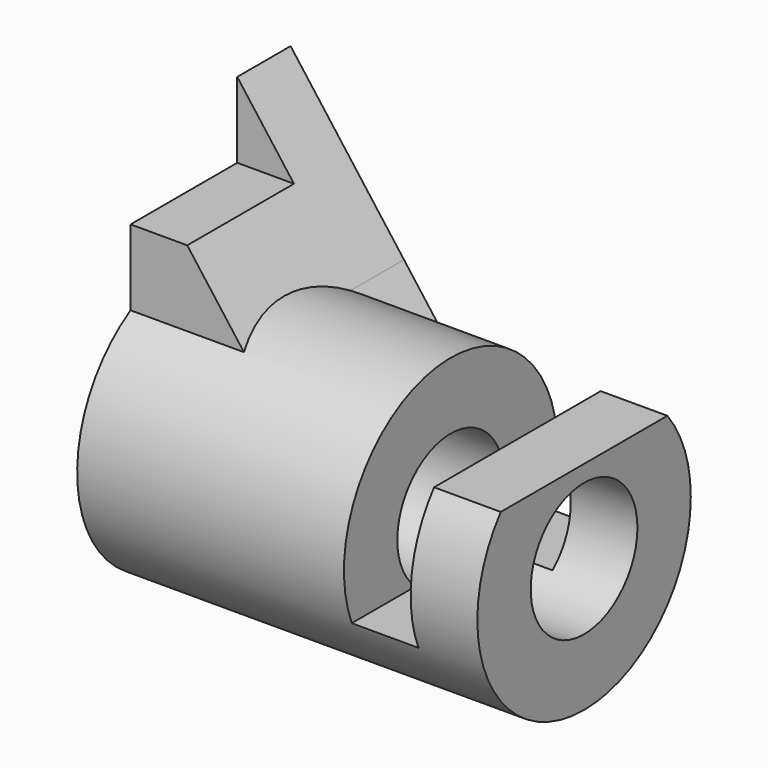
from build123d import *

# Parameters (mm, degrees)
F0_R          = 25.4
F0_R_2        = 12.7
F1_DEPTH      = 76.2
F3_DEPTH      = 25.4
F3_DEPTH_BACK = 12.7
F5_DEPTH      = 25.4
F6_R          = 12.7
F7_DEPTH      = 76.201
F9_DEPTH      = 25.401
F9_DEPTH_BACK = 25.4


with BuildPart() as f1:
    # F0 (on Right) → F1 (new body)
    with BuildSketch(Plane.YZ):
        Circle(F0_R)
        Circle(F0_R_2, mode=Mode.SUBTRACT)
    extrude(amount=F1_DEPTH)

    # F2 (on Front) → F3 (join, two sides)
    with BuildSketch(Plane.XZ) as f3_sk:
        Polygon((0, 22.0133333333), (0, 0), (38.1, 0), (21.59, 22.0133333333), align=None)
        Polygon((0, 50.8), (0, 22.0133333333), (21.59, 22.0133333333), align=None)
    extrude(amount=-F3_DEPTH)
    extrude(f3_sk.sketch, amount=F3_DEPTH_BACK)

    # F4 (on face) → F5 (cut)
    with BuildSketch(Plane.XZ.offset(12.7)):
        Polygon((0, 50.8), (0, 36.3985226281), (10.801108029, 36.3985226281), align=None)
    extrude(amount=-F5_DEPTH, mode=Mode.SUBTRACT)

    # F6 (on Right) → F7 (cut, through all)
    with BuildSketch(Plane.YZ):
        Circle(F6_R)
    extrude(amount=F7_DEPTH, mode=Mode.SUBTRACT)

    # F8 (on Front) → F9 (cut, two sides)
    with BuildSketch(Plane.XZ) as f9_sk:
        Polygon((76.2, 25.4), (50.8, 25.4), (50.8, -9.525), (63.5, -9.525), (63.5, 15.875), (76.2, 15.875), align=None)
    extrude(amount=-F9_DEPTH, mode=Mode.SUBTRACT)
    extrude(f9_sk.sketch, amount=F9_DEPTH_BACK, mode=Mode.SUBTRACT)


solid = f1.part
